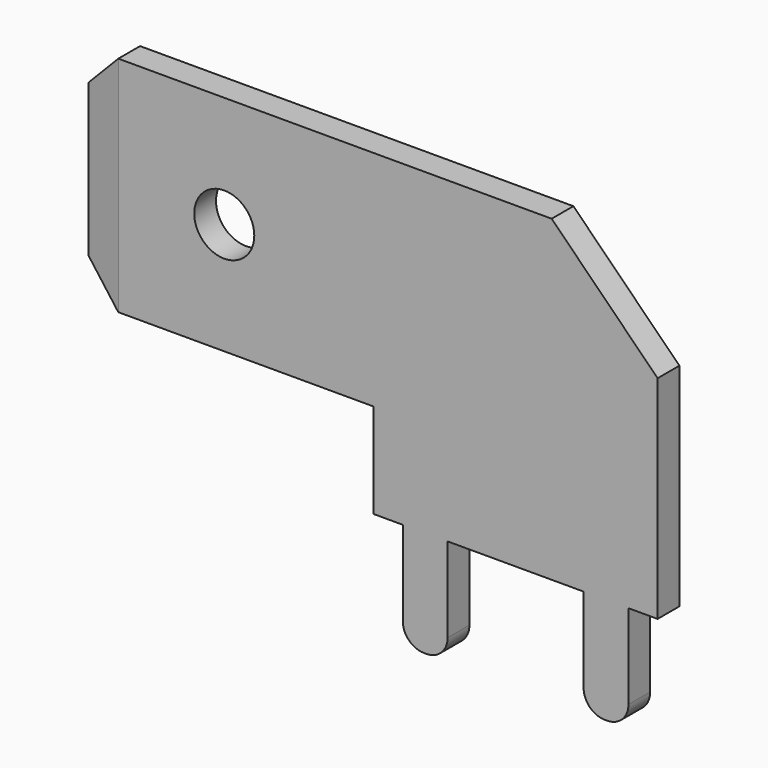
from build123d import *

# Parameters (mm, degrees)
F1_DEPTH = 0.385
F2_SIZE  = 1
F3_R     = 0.85
F4_DEPTH = 0.771
F6_DEPTH = 12.001


with BuildPart() as f1:
    # F0 (on Front) → F1 (new body, symmetric)
    with BuildSketch(Plane.XZ):
        with BuildLine():
            Line((-4.02, 2.68), (-4.02, 0))
            Line((-4.02, 0), (-3.195, 0))
            Line((-3.195, 0), (-3.195, -2.4))
            ThreePointArc((-3.195, -2.4), (-3.019264, -2.824264), (-2.595, -3))
            Line((-2.595, -3), (-2.525, -3))
            ThreePointArc((-2.525, -3), (-2.100736, -2.824264), (-1.925, -2.4))
            Line((-1.925, -2.4), (-1.925, 0))
            Line((-1.925, 0), (1.925, 0))
            Line((1.925, 0), (1.925, -2.4))
            ThreePointArc((1.925, -2.4), (2.100736, -2.824264), (2.525, -3))
            Line((2.525, -3), (2.595, -3))
            ThreePointArc((2.595, -3), (3.019264, -2.824264), (3.195, -2.4))
            Line((3.195, -2.4), (3.195, 0))
            Line((3.195, 0), (4.02, 0))
            Line((4.02, 0), (4.02, 6))
            Line((4.02, 6), (1.02, 9))
            Line((1.02, 9), (-11.25, 9))
            Line((-11.25, 9), (-12.25, 9))
            Line((-12.25, 9), (-12.25, 2.68))
            Line((-12.25, 2.68), (-11.25, 2.68))
            Line((-11.25, 2.68), (-4.02, 2.68))
        make_face()
    extrude(amount=F1_DEPTH, both=True)

    # F2
    f2_edges = [f1.edges().sort_by_distance(p)[0] for p in [
        (-12.25, 0, 9),
        (-12.25, 0, 2.68),
    ]]
    chamfer(f2_edges, length=F2_SIZE)

    # F3 (on face) → F4 (cut, through all)
    with BuildSketch(Plane.XZ.offset(0.385)):
        with Locations((-8.25, 5.84)):
            Circle(F3_R)
    extrude(amount=-F4_DEPTH, mode=Mode.SUBTRACT)

    # F5 (on face) → F6 (cut, through all)
    with BuildSketch(Plane.XY.offset(9)):
        Polygon((-12.25, 0.185), (-11.25, 0.385), (-12.25, 0.385), align=None)
        Polygon((-12.25, -0.385), (-11.25, -0.385), (-12.25, -0.185), align=None)
    extrude(amount=-F6_DEPTH, mode=Mode.SUBTRACT)


solid = f1.part
